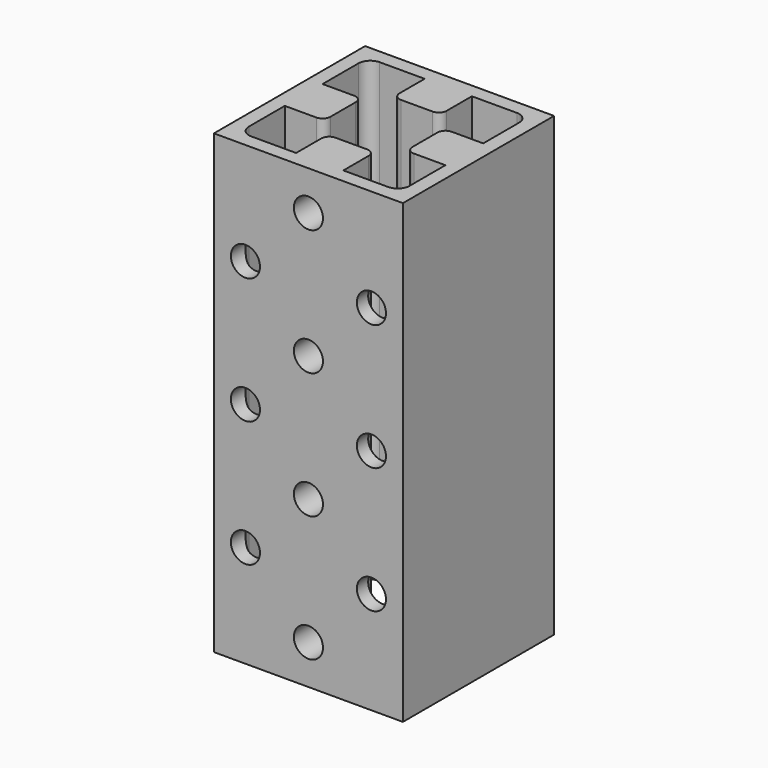
from build123d import *

# Parameters (mm, degrees)
F0_W     = 24
F0_H     = 24
F1_DEPTH = 58
F2_R     = 1.85
F3_DEPTH = 7.5


with BuildPart() as f1:
    # F0 (on Top) → F1 (new body)
    with BuildSketch(Plane.XY):
        Rectangle(F0_W, F0_H)
        with BuildLine():
            ThreePointArc((-8.7, -10.2), (-9.76066, -9.76066), (-10.2, -8.7))
            Line((-10.2, -8.7), (-10.2, -3))
            Line((-10.2, -3), (-6.2, -3))
            ThreePointArc((-6.2, -3), (-5.492893, -2.707107), (-5.2, -2))
            Line((-5.2, -2), (-5.2, 2))
            ThreePointArc((-5.2, 2), (-5.492893, 2.707107), (-6.2, 3))
            Line((-6.2, 3), (-10.2, 3))
            Line((-10.2, 3), (-10.2, 8.7))
            ThreePointArc((-10.2, 8.7), (-9.76066, 9.76066), (-8.7, 10.2))
            Line((-8.7, 10.2), (-3, 10.2))
            Line((-3, 10.2), (-3, 6.2))
            ThreePointArc((-3, 6.2), (-2.707107, 5.492893), (-2, 5.2))
            Line((-2, 5.2), (2, 5.2))
            ThreePointArc((2, 5.2), (2.707107, 5.492893), (3, 6.2))
            Line((3, 6.2), (3, 10.2))
            Line((3, 10.2), (8.7, 10.2))
            ThreePointArc((8.7, 10.2), (9.76066, 9.76066), (10.2, 8.7))
            Line((10.2, 8.7), (10.2, 3))
            Line((10.2, 3), (6.2, 3))
            ThreePointArc((6.2, 3), (5.492893, 2.707107), (5.2, 2))
            Line((5.2, 2), (5.2, -2))
            ThreePointArc((5.2, -2), (5.492893, -2.707107), (6.2, -3))
            Line((6.2, -3), (10.2, -3))
            Line((10.2, -3), (10.2, -8.7))
            ThreePointArc((10.2, -8.7), (9.76066, -9.76066), (8.7, -10.2))
            Line((8.7, -10.2), (3, -10.2))
            Line((3, -10.2), (3, -6.2))
            ThreePointArc((3, -6.2), (2.707107, -5.492893), (2, -5.2))
            Line((2, -5.2), (-2, -5.2))
            ThreePointArc((-2, -5.2), (-2.707107, -5.492893), (-3, -6.2))
            Line((-3, -6.2), (-3, -10.2))
            Line((-3, -10.2), (-8.7, -10.2))
        make_face(mode=Mode.SUBTRACT)
    extrude(amount=F1_DEPTH)

    # F2 (on face) → F3 (cut)
    with BuildSketch(Plane.XZ.offset(12)):
        with Locations((0, 53)):
            Circle(F2_R)
        with Locations((8, 45)):
            Circle(F2_R)
        with Locations((-8, 45)):
            Circle(F2_R)
        with Locations((0, 37)):
            Circle(F2_R)
        with Locations((-8, 29)):
            Circle(F2_R)
        with Locations((0, 21)):
            Circle(F2_R)
        with Locations((8, 29)):
            Circle(F2_R)
        with Locations((8, 13)):
            Circle(F2_R)
        with Locations((-8, 13)):
            Circle(F2_R)
        with Locations((0, 5)):
            Circle(F2_R)
    extrude(amount=-F3_DEPTH, mode=Mode.SUBTRACT)


solid = f1.part
